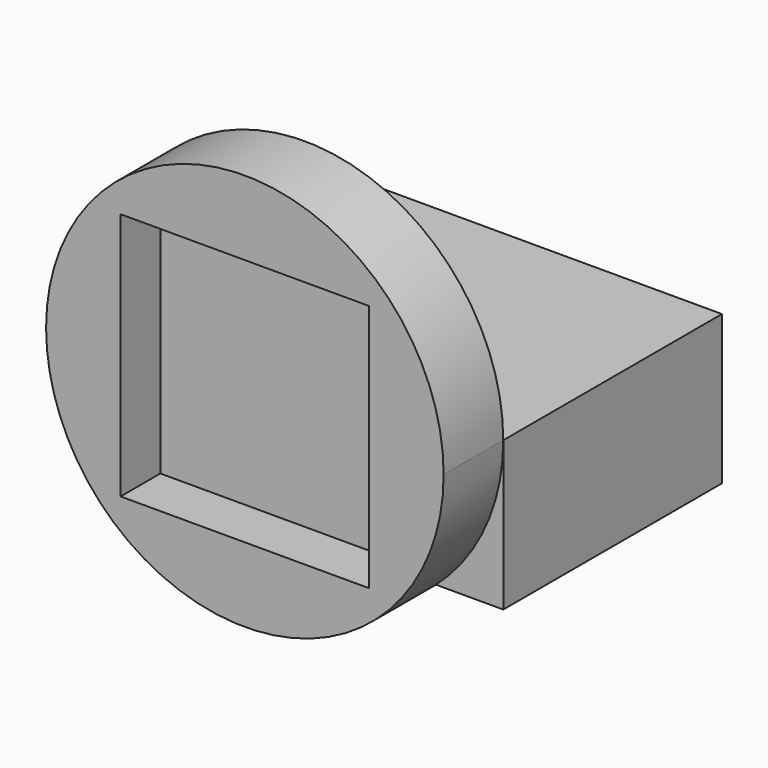
from build123d import *

# Parameters (mm, degrees)
F1_DEPTH = 11
F2_DEPTH = 3
F3_W     = 10
F3_H     = 10
F4_DEPTH = 2


with BuildPart() as f1:
    # F0 (on Front) → F1 (new body)
    with BuildSketch(Plane.XZ):
        with BuildLine():
            ThreePointArc((-5.2915026221, -6), (-7.2915026221, -3.2915026221), (-8, 0))
            Line((-8, 0), (-8, -6))
            Line((-8, -6), (-5.2915026221, -6))
        make_face()
        with BuildLine():
            Line((8, -6), (8, 0))
            ThreePointArc((8, 0), (7.2915026221, -3.2915026221), (5.2915026221, -6))
            Line((5.2915026221, -6), (8, -6))
        make_face()
        with BuildLine():
            ThreePointArc((5.2915026221, -6), (7.2915026221, -3.2915026221), (8, 0))
            Line((8, 0), (-8, 0))
            ThreePointArc((-8, 0), (-7.2915026221, -3.2915026221), (-5.2915026221, -6))
            Line((-5.2915026221, -6), (5.2915026221, -6))
        make_face()
    extrude(amount=-F1_DEPTH)

    # F0 (on Front) → F2 (join)
    with BuildSketch(Plane.XZ):
        with BuildLine():
            Line((-8, 0), (8, 0))
            ThreePointArc((8, 0), (0, 8), (-8, 0))
        make_face()
        with BuildLine():
            ThreePointArc((5.2915026221, -6), (7.2915026221, -3.2915026221), (8, 0))
            Line((8, 0), (-8, 0))
            ThreePointArc((-8, 0), (-7.2915026221, -3.2915026221), (-5.2915026221, -6))
            Line((-5.2915026221, -6), (5.2915026221, -6))
        make_face()
        with BuildLine():
            ThreePointArc((-5.2915026221, -6), (0, -8), (5.2915026221, -6))
            Line((5.2915026221, -6), (-5.2915026221, -6))
        make_face()
    extrude(amount=F2_DEPTH)

    # F3 (on face) → F4 (cut)
    with BuildSketch(Plane.XZ.offset(3)):
        Rectangle(F3_W, F3_H)
    extrude(amount=-F4_DEPTH, mode=Mode.SUBTRACT)


solid = f1.part
